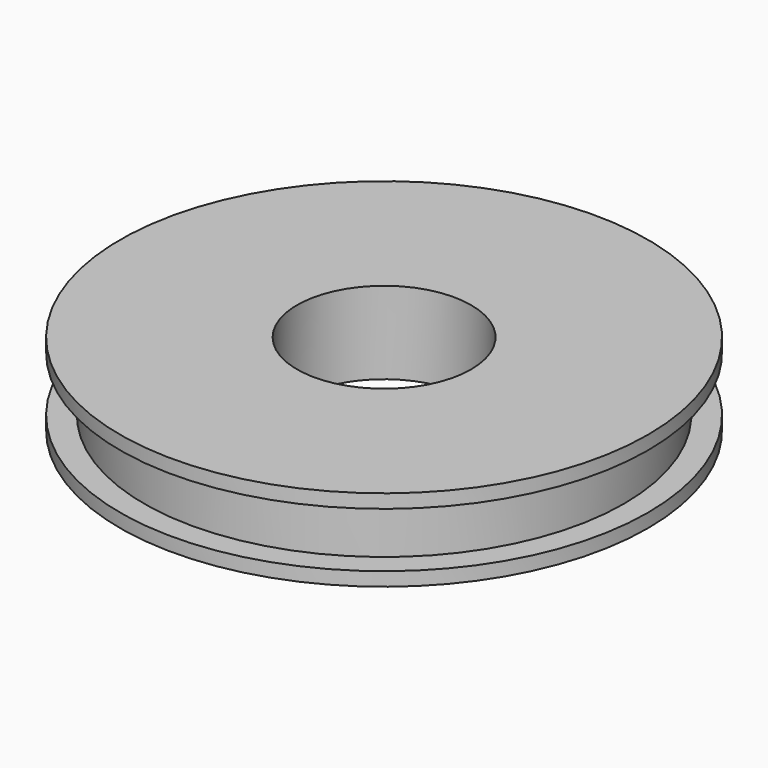
from build123d import *

# Parameters (mm, degrees)
F0_R     = 38.5
F0_R_2   = 35
F0_R_3   = 12.7
F1_DEPTH = 2
F2_DEPTH = 10
F3_R     = 38.5
F3_R_2   = 35
F3_R_3   = 12.7
F4_DEPTH = 2


with BuildPart() as f1:
    # F0 (on Top) → F1 (new body)
    with BuildSketch(Plane.XY):
        Circle(F0_R)
        Circle(F0_R_2, mode=Mode.SUBTRACT)
        Circle(F0_R_2)
        Circle(F0_R_3, mode=Mode.SUBTRACT)
    extrude(amount=F1_DEPTH)

    # F0 (on Top) → F2 (join)
    with BuildSketch(Plane.XY):
        Circle(F0_R_2)
        Circle(F0_R_3, mode=Mode.SUBTRACT)
    extrude(amount=F2_DEPTH)

    # F3 (on face) → F4 (join)
    with BuildSketch(Plane.XY.offset(10)):
        Circle(F3_R)
        Circle(F3_R_2, mode=Mode.SUBTRACT)
        Circle(F3_R_2)
        Circle(F3_R_3, mode=Mode.SUBTRACT)
    extrude(amount=F4_DEPTH)


solid = f1.part
